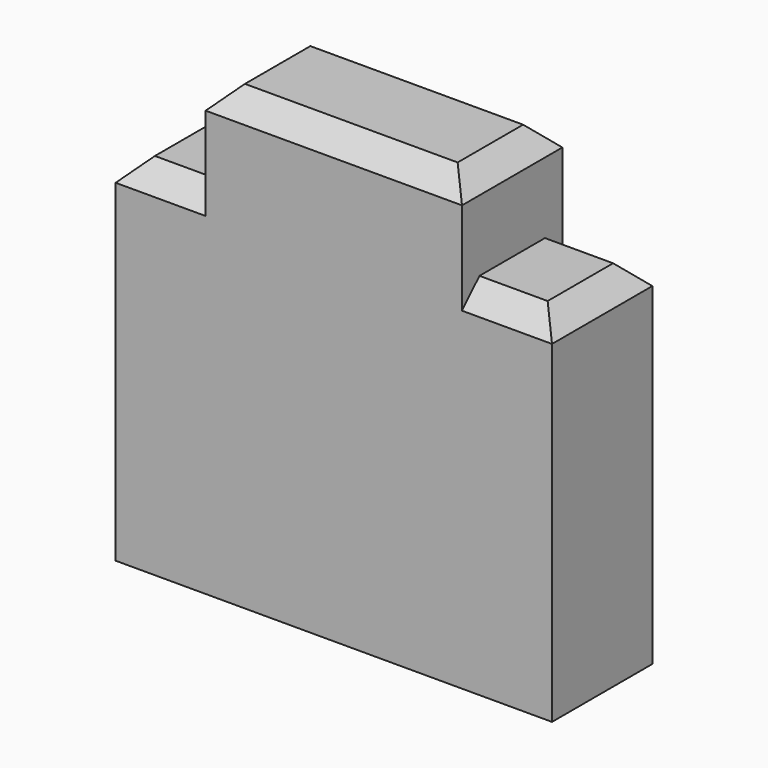
from build123d import *

# Parameters (mm, degrees)
SKETCH008_W     = 4
SKETCH008_H     = 1.15
PAD005_DEPTH    = 4.1
SKETCH009_W     = 0.825
SKETCH009_H     = 0.85
POCKET002_DEPTH = 5
CHAMFER005_SIZE = 0.2


with BuildPart() as part:
    # Sketch008 → Pad005 (new body)
    with BuildSketch(Plane.XY):
        Rectangle(SKETCH008_W, SKETCH008_H)
    extrude(amount=PAD005_DEPTH)

    # Sketch009 (on Face1 of Pad005) → Pocket002 (cut)
    with BuildSketch(Plane(origin=(0, 0.575, 0), x_dir=(-1, 0, 0), z_dir=(0, 1, 0))):
        with Locations((-1.5875, 3.675)):
            Rectangle(SKETCH009_W, SKETCH009_H)
        with Locations((1.5875, 3.675)):
            Rectangle(SKETCH009_W, SKETCH009_H)
    extrude(amount=-POCKET002_DEPTH, mode=Mode.SUBTRACT)

    # Chamfer005
    chamfer005_edges = [part.edges().sort_by_distance(p)[0] for p in [
        (0, 0.575, 4.1),
        (0, -0.575, 4.1),
        (1.5875, 0.575, 3.25),
        (-1.5875, 0.575, 3.25),
        (-1.5875, -0.575, 3.25),
        (1.5875, -0.575, 3.25),
        (2, 0, 3.25),
        (-2, 0, 3.25),
        (1.175, 0, 4.1),
        (-1.175, 0, 4.1),
    ]]
    chamfer(chamfer005_edges, length=CHAMFER005_SIZE)


with BuildPart() as part_1:
    # Body046 placement: moved
    add(part.part.moved(Location((0, 72, 0))))


solid = part_1.part
